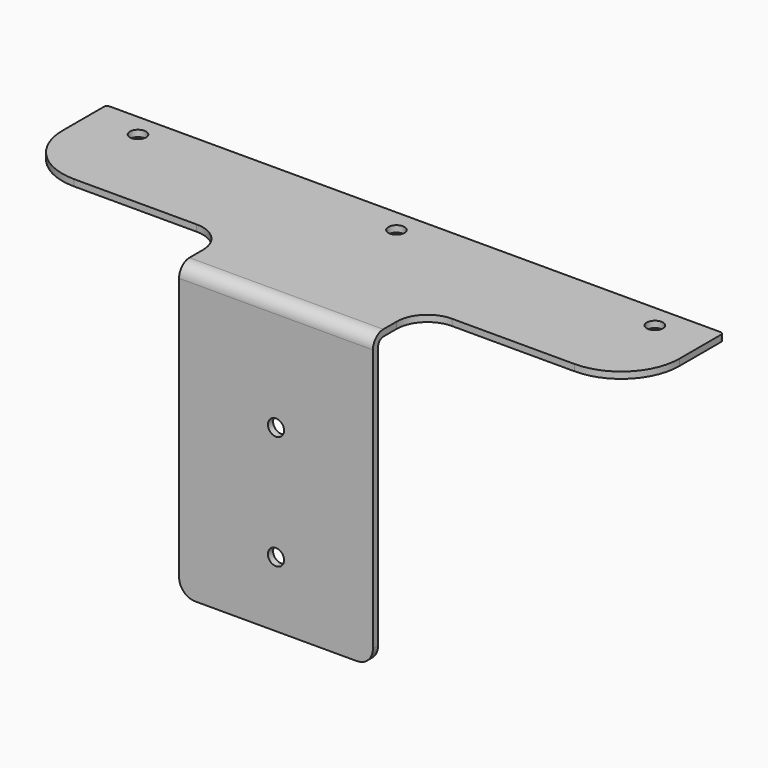
from build123d import *

# Parameters (mm, degrees)
F0_W     = 35.1
F0_H     = 2
F1_DEPTH = 95.5
F2_DEPTH = 30
F3_R     = 18
F4_R     = 9.5
F5_R     = 5
F7_D     = 5
F9_D     = 5
F10_R    = 1
F11_R    = 4
F12_R    = 2


with BuildPart() as f1:
    # F0 (on Right) → F1 (new body, symmetric)
    with BuildSketch(Plane.YZ):
        with Locations((36.25, -1)):
            Rectangle(F0_W, F0_H)
    extrude(amount=F1_DEPTH, both=True)

    # F0 (on Right) → F2 (join, symmetric)
    with BuildSketch(Plane.YZ):
        Polygon((18.7, 0), (3.5, 0), (0, 0), (0, -3.5), (0, -90.4), (2, -90.4), (2, -3.5), (2, -2), (3.5, -2), (18.7, -2), align=None)
    extrude(amount=F2_DEPTH, both=True)

    # F3
    f3_edges = [f1.edges().sort_by_distance(p)[0] for p in [
        (95.5, 18.7, -1),
        (-95.5, 18.7, -1),
    ]]
    fillet(f3_edges, radius=F3_R)

    # F4
    f4_edges = [f1.edges().sort_by_distance(p)[0] for p in [
        (-30, 18.7, -1),
        (30, 18.7, -1),
    ]]
    fillet(f4_edges, radius=F4_R)

    # F5
    f5_edges = [f1.edges().sort_by_distance(p)[0] for p in [
        (-30, 1, -90.4),
        (30, 1, -90.4),
    ]]
    fillet(f5_edges, radius=F5_R)

    # F7 (through all)
    with Locations(Plane.XZ):
        with Locations((0, -70.2), (0, -34.9)):
            Hole(F7_D / 2)

    # F9 (through all)
    with Locations(Plane.XY):
        with Locations((-80, 46.6), (0, 46.6), (80, 46.6)):
            Hole(F9_D / 2)

    # F10
    f10_edges = [f1.edges().sort_by_distance(p)[0] for p in [
        (95.5, 53.8, -1),
        (-95.5, 53.8, -1),
    ]]
    fillet(f10_edges, radius=F10_R)

    # F11
    f11_edges = [f1.edges().sort_by_distance(p)[0] for p in [
        (0, 0, 0),
    ]]
    fillet(f11_edges, radius=F11_R)

    # F12
    f12_edges = [f1.edges().sort_by_distance(p)[0] for p in [
        (0, 2, -2),
    ]]
    fillet(f12_edges, radius=F12_R)


solid = f1.part
